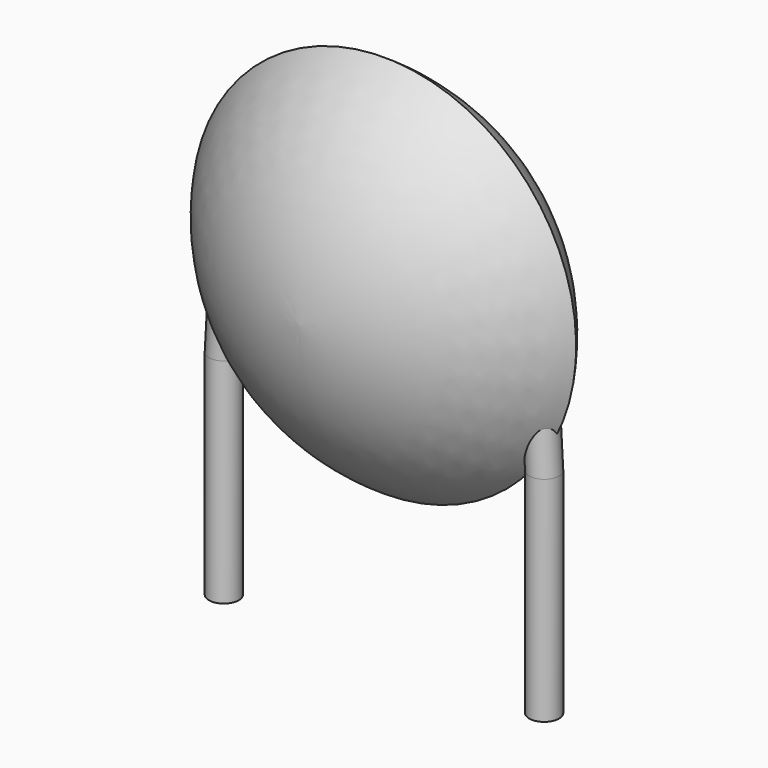
from build123d import *

# Parameters (mm, degrees)
SKETCH001_R       = 0.35
PAD001_DEPTH      = 1.8
PAD001_DEPTH_BACK = 3.2
SKETCH002_R       = 0.35
SKETCH003_R       = 0.35
SKETCH004_R       = 0.35
SKETCH005_R       = 0.35


with BuildPart() as pad001:
    # Sketch001 → Pad001 (new body, two sides)
    with BuildSketch(Plane.XY) as pad001_sk:
        Circle(SKETCH001_R)
        with Locations((7.5, 0)):
            Circle(SKETCH001_R)
    extrude(amount=PAD001_DEPTH)
    extrude(pad001_sk.sketch, amount=-PAD001_DEPTH_BACK)


with BuildPart() as revolution:
    # Sketch → Revolution (revolve)
    with BuildSketch(Plane.YZ.offset(3.75)):
        with BuildLine():
            Line((-2.5, 4.6), (2.5, 4.6))
            ThreePointArc((0, 0.1), (1.794778, 2.047346), (2.5, 4.6))
            ThreePointArc((-2.5, 4.6), (-1.794778, 2.047346), (0, 0.1))
        make_face()
    revolve(axis=Axis((3.75, -3.32079, 4.6), (0, 1, 0)))


with BuildPart() as loft_body:
    # Sketch002 → Loft section 0
    with BuildSketch(Plane.XY.offset(4.5)):
        with Locations((0.15, 0)):
            Circle(SKETCH002_R)
    # Sketch003 → Loft section 1
    with BuildSketch(Plane.XY.offset(1.8)):
        Circle(SKETCH003_R)
    loft()


with BuildPart() as loft001:
    # Sketch004 → Loft001 section 0
    with BuildSketch(Plane.XY.offset(1.8)):
        with Locations((7.5, 0)):
            Circle(SKETCH004_R)
    # Sketch005 → Loft001 section 1
    with BuildSketch(Plane.XY.offset(4.5)):
        with Locations((7.35, 0)):
            Circle(SKETCH005_R)
    loft()


solid = Compound([pad001.part, revolution.part, loft_body.part, loft001.part])
